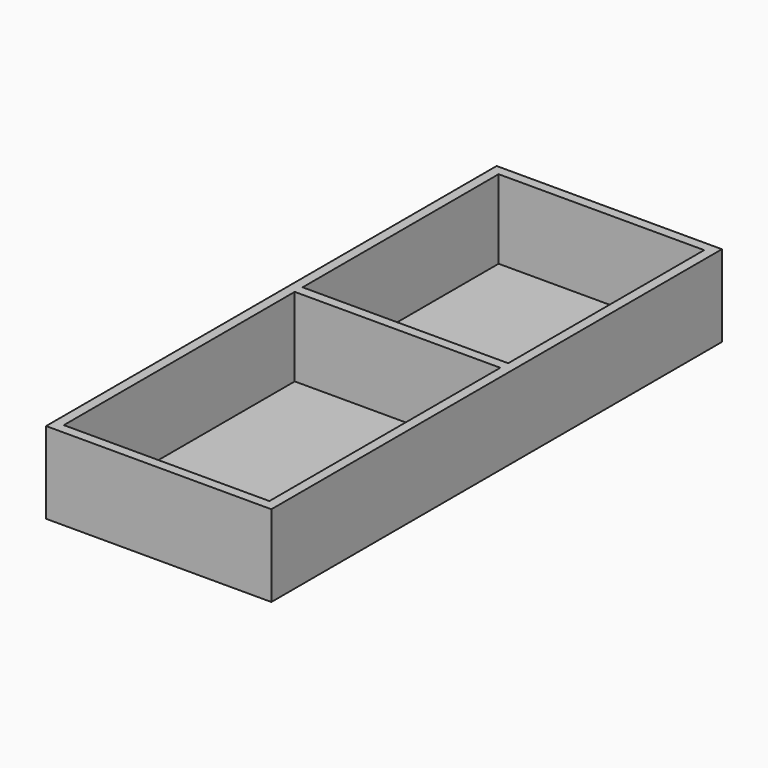
from build123d import *

# Parameters (mm, degrees)
F0_W     = 800
F0_H     = 2000
F0_W_2   = 730
F0_H_2   = 1025
F0_H_3   = 870
F1_DEPTH = 280
F2_W     = 800
F2_H     = 2000
F3_DEPTH = 10


with BuildPart() as f1:
    # F0 (on Top) → F1 (new body)
    with BuildSketch(Plane.XY):
        Rectangle(F0_W, F0_H)
        with Locations((0, -452.5)):
            Rectangle(F0_W_2, F0_H_2, mode=Mode.SUBTRACT)
        with Locations((0, 530)):
            Rectangle(F0_W_2, F0_H_3, mode=Mode.SUBTRACT)
    extrude(amount=F1_DEPTH)

    # F2 (on face) → F3 (join)
    with BuildSketch(Plane(origin=(0, 0, 0), x_dir=(1, 0, 0), z_dir=(0, 0, -1))):
        Rectangle(F2_W, F2_H)
    extrude(amount=F3_DEPTH)


solid = f1.part
